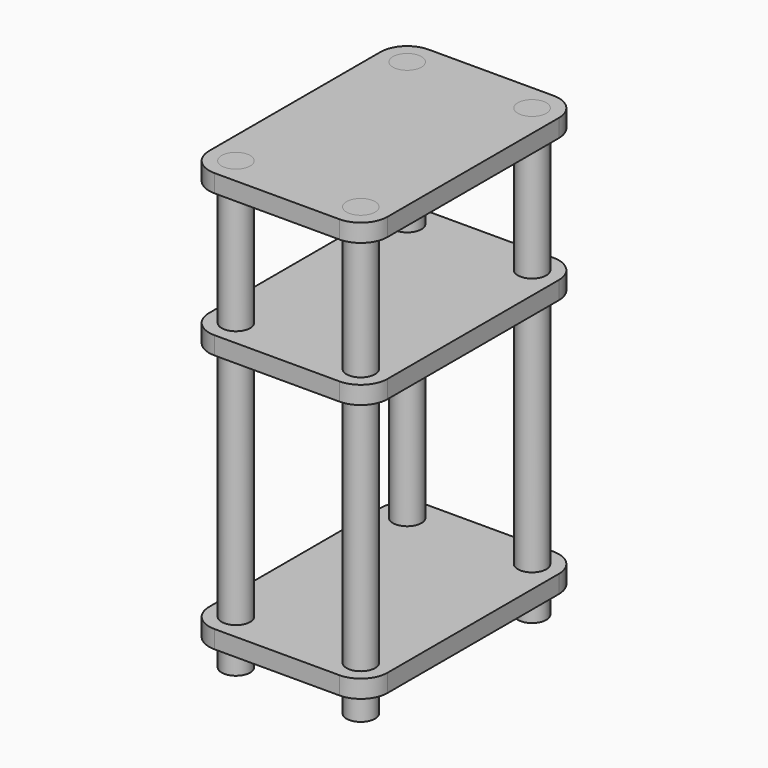
from build123d import *

# Parameters (mm, degrees)
BOX_W             = 100
BOX_H             = 150
BOX_DEPTH         = 10
FILLET_R          = 15
BOX001_W          = 100
BOX001_H          = 150
BOX001_DEPTH      = 10
FILLET001_R       = 15
BOX002_W          = 100
BOX002_H          = 150
BOX002_DEPTH      = 10
FILLET002_R       = 15
CYLINDER_R        = 8
CYLINDER_DEPTH    = 250
CYLINDER001_R     = 8
CYLINDER001_DEPTH = 250
CYLINDER002_R     = 8
CYLINDER002_DEPTH = 250
CYLINDER003_R     = 8
CYLINDER003_DEPTH = 250


with BuildPart() as obj1:
    # Box → Box (new body)
    with BuildSketch(Plane.XY):
        with Locations((50, 75)):
            Rectangle(BOX_W, BOX_H)
    extrude(amount=BOX_DEPTH)

    # Fillet
    fillet_edges = [obj1.edges().sort_by_distance(p)[0] for p in [
        (0, 0, 5),
        (0, 150, 5),
        (100, 0, 5),
        (100, 150, 5),
    ]]
    fillet(fillet_edges, radius=FILLET_R)


with BuildPart() as obj1_1:
    # Fillet placement: moved
    add(obj1.part.moved(Location((0, 0, 240))))


with BuildPart() as obj2:
    # Box001 → Box001 (new body)
    with BuildSketch(Plane.XY):
        with Locations((50, 75)):
            Rectangle(BOX001_W, BOX001_H)
    extrude(amount=BOX001_DEPTH)

    # Fillet001
    fillet001_edges = [obj2.edges().sort_by_distance(p)[0] for p in [
        (0, 0, 5),
        (0, 150, 5),
        (100, 0, 5),
        (100, 150, 5),
    ]]
    fillet(fillet001_edges, radius=FILLET001_R)


with BuildPart() as obj2_1:
    # Fillet001 placement: moved
    add(obj2.part.moved(Location((0, 0, 160))))


with BuildPart() as obj3:
    # Box002 → Box002 (new body)
    with BuildSketch(Plane.XY):
        with Locations((50, 75)):
            Rectangle(BOX002_W, BOX002_H)
    extrude(amount=BOX002_DEPTH)

    # Fillet002
    fillet002_edges = [obj3.edges().sort_by_distance(p)[0] for p in [
        (0, 0, 5),
        (0, 150, 5),
        (100, 0, 5),
        (100, 150, 5),
    ]]
    fillet(fillet002_edges, radius=FILLET002_R)


with BuildPart() as obj3_1:
    # Fillet002 placement: moved
    add(obj3.part.moved(Location((0, 0, 15))))


with BuildPart() as obj4:
    # Cylinder → Cylinder (new body)
    with BuildSketch(Plane(origin=(15, 15, 0), x_dir=(1, 0, 0), z_dir=(0, 0, 1))):
        Circle(CYLINDER_R)
    extrude(amount=CYLINDER_DEPTH)


with BuildPart() as obj5:
    # Cylinder001 → Cylinder001 (new body)
    with BuildSketch(Plane(origin=(85, 15, 0), x_dir=(1, 0, 0), z_dir=(0, 0, 1))):
        Circle(CYLINDER001_R)
    extrude(amount=CYLINDER001_DEPTH)


with BuildPart() as obj6:
    # Cylinder002 → Cylinder002 (new body)
    with BuildSketch(Plane(origin=(85, 135, 0), x_dir=(1, 0, 0), z_dir=(0, 0, 1))):
        Circle(CYLINDER002_R)
    extrude(amount=CYLINDER002_DEPTH)


with BuildPart() as obj7:
    # Cylinder003 → Cylinder003 (new body)
    with BuildSketch(Plane(origin=(15, 135, 0), x_dir=(1, 0, 0), z_dir=(0, 0, 1))):
        Circle(CYLINDER003_R)
    extrude(amount=CYLINDER003_DEPTH)


solid = Compound([obj1_1.part, obj2_1.part, obj3_1.part, obj4.part, obj5.part, obj6.part, obj7.part])
